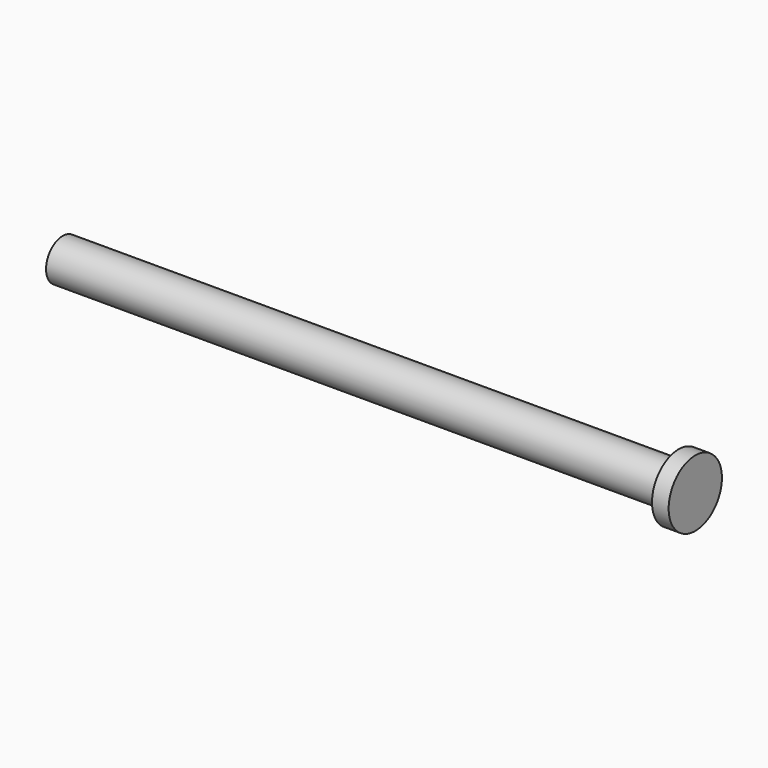
from build123d import *

# Parameters (mm, degrees)
F0_R     = 3.175
F1_DEPTH = 48.26
F2_R     = 5.08
F3_DEPTH = 2.54


with BuildPart() as f1:
    # F0 (on Right) → F1 (new body, symmetric)
    with BuildSketch(Plane.YZ):
        Circle(F0_R)
    extrude(amount=F1_DEPTH, both=True)

    # F2 (on face) → F3 (join)
    with BuildSketch(Plane.YZ.offset(48.26)):
        Circle(F2_R)
    extrude(amount=-F3_DEPTH)


solid = f1.part
